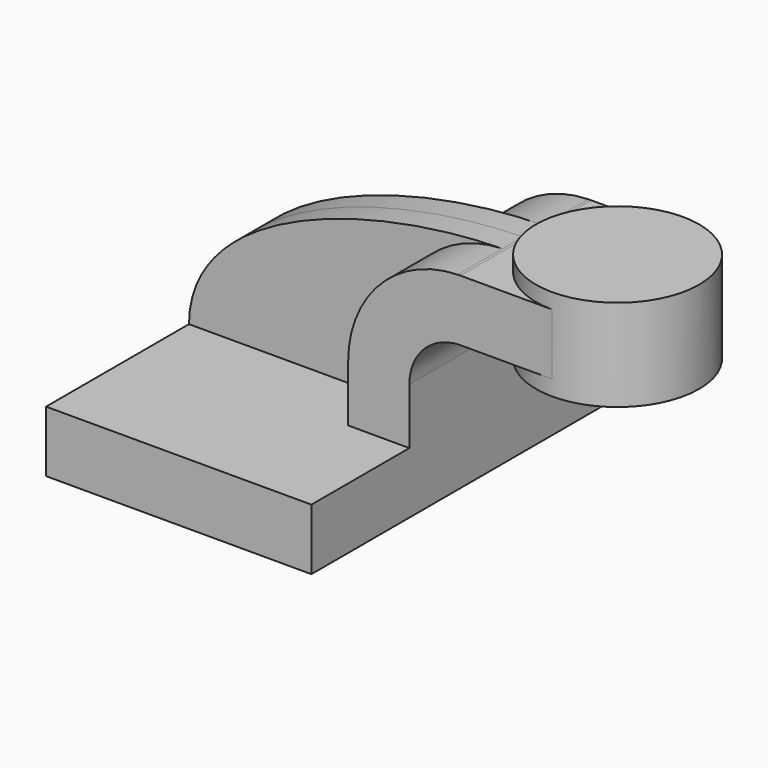
from build123d import *

# Parameters (mm, degrees)
F1_DEPTH = 63.5
F0_W     = 25.4
F0_H     = 19.05
F2_DEPTH = 25.4
F3_DEPTH = 7.9375


with BuildPart() as f1:
    # F0 (on Front) → F1 (new body, symmetric)
    with BuildSketch(Plane.XZ):
        Polygon((-41.275, 9.525), (-41.275, -9.525), (41.275, -9.525), (41.275, 9.525), (22.225, 9.525), align=None)
    extrude(amount=F1_DEPTH, both=True)

    # F0 (on Front) → F2 (join, symmetric)
    with BuildSketch(Plane.XZ):
        with Locations((73.025, 52.4002)):
            Rectangle(F0_W, F0_H)
        with BuildLine():
            Line((22.225, 9.525), (41.275, 9.525))
            Line((41.275, 9.525), (41.275, 27.0002))
            ThreePointArc((41.275, 27.0002), (45.9246798487, 38.2255201513), (57.15, 42.8752))
            Line((57.15, 42.8752), (60.325, 42.8752))
            Line((60.325, 42.8752), (60.325, 61.9252))
            Line((60.325, 61.9252), (57.15, 61.9252))
            add(Edge.make_bspline(
                [(56.2917515446, 61.9146530902), (56.5784749306, 61.9189535671), (56.8645650873, 61.9224691787), (57.15, 61.9252)],
                knots=[110.7466001681, 110.7466001681, 110.7466001681, 110.7466001681, 111.5045361635, 111.5045361635, 111.5045361635, 111.5045361635], degree=3))
            ThreePointArc((56.2917515446, 61.9146530902), (32.1527006228, 51.3905802522), (22.225, 27.0002))
            Line((22.225, 27.0002), (22.225, 9.525))
        make_face()
    extrude(amount=F2_DEPTH, both=True)

    # F0 (on Front) → F4 (revolve)
    with BuildSketch(Plane.XZ):
        Polygon((85.725, 66.675), (85.725, 61.9252), (85.725, 42.8752), (85.725, 38.1), (111.125, 38.1), (111.125, 66.675), align=None)
    revolve(axis=Axis((85.725, 0, 52.3875), (0, 0, 1)))


with BuildPart() as f3:
    # F0 (on Front) → F3 (new body, symmetric)
    with BuildSketch(Plane.XZ):
        with BuildLine():
            add(Edge.make_bspline(
                [(-41.275, 9.525), (-41.0173954641, 43.90112416), (14.396868092, 61.286284473), (56.2917515446, 61.9146530902)],
                knots=[0, 0, 0, 0, 110.7466001681, 110.7466001681, 110.7466001681, 110.7466001681], degree=3))
            Line((-41.275, 9.525), (22.225, 9.525))
            Line((22.225, 9.525), (22.225, 27.0002))
            ThreePointArc((22.225, 27.0002), (32.1527006228, 51.3905802522), (56.2917515446, 61.9146530902))
        make_face()
    extrude(amount=F3_DEPTH, both=True)


solid = Compound([f1.part, f3.part])
